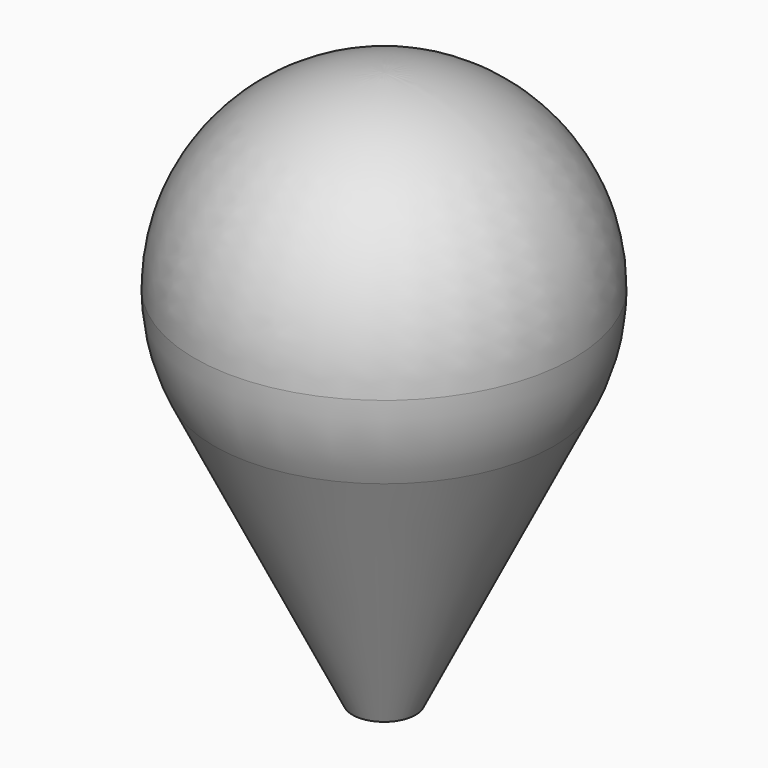
from build123d import *


with BuildPart() as f1:
    # F0 (on Front) → F1 (revolve)
    with BuildSketch(Plane.XZ):
        with BuildLine():
            ThreePointArc((1.346194, -0.661636), (1.461043, -0.339639), (1.5, 0))
            ThreePointArc((1.5, 0), (1.06066, 1.06066), (0, 1.5))
            Line((0, 1.5), (0, -1.5))
            ThreePointArc((0, -1.5), (0.792952, -1.273274), (1.346194, -0.661636))
        make_face()
        with BuildLine():
            Line((0.25, -2.892), (1.346194, -0.661636))
            ThreePointArc((1.346194, -0.661636), (0.792952, -1.273274), (0, -1.5))
            Line((0, -1.5), (0, -2.892))
            Line((0, -2.892), (0.25, -2.892))
        make_face()
    revolve(axis=Axis((0, 0, -0.715891), (0, 0, -1)))


solid = f1.part
